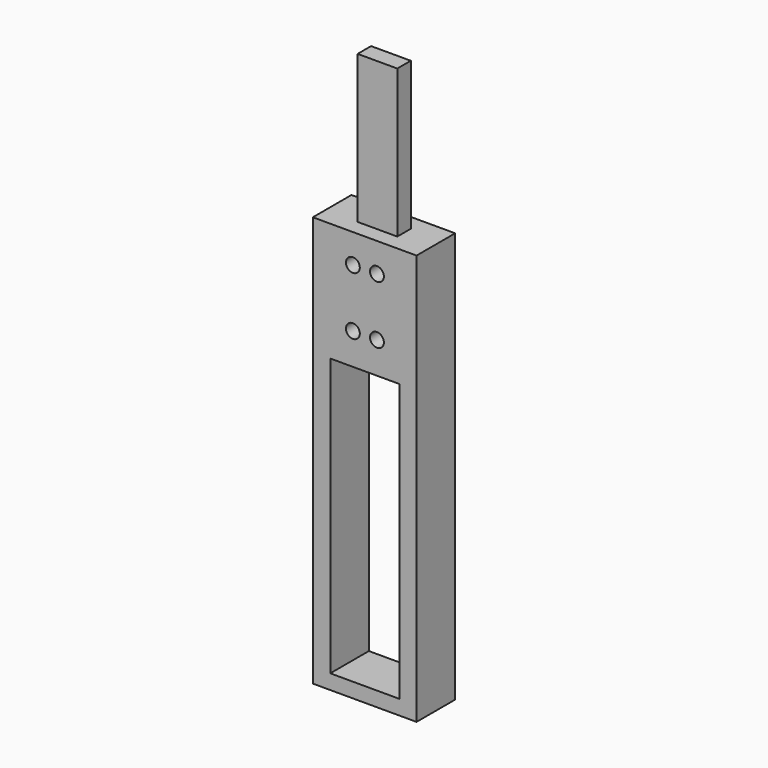
from build123d import *

# Parameters (mm, degrees)
F0_W     = 10.5505171232
F0_H     = 5.8358493261
F1_DEPTH = 85
F3_DEPTH = 33.5
F4_D     = 4
F5_W     = 11.4551503211
F5_H     = 4.8642051406
F6_DEPTH = 42.7
F7_W     = 20
F7_H     = 50
F7_H_2   = 30
F8_DEPTH = 25


with BuildPart() as f1:
    # F0 (on Top) → F1 (new body)
    with BuildSketch(Plane.XY):
        with BuildLine():
            ThreePointArc((6.3000439482, -6.9552523798), (8.5786924555, -3.8042246479), (9.3843534363, 0))
            ThreePointArc((9.3843534363, 0), (8.5736712413, 3.8155275996), (6.2816887803, 6.9718344419))
            Line((6.2816887803, 6.9718344419), (-6.2816887803, 6.9718344419))
            ThreePointArc((-6.2816887803, 6.9718344419), (-9.384345286, 0.0123680735), (-6.3000439482, -6.9552523798))
            Line((-6.3000439482, -6.9552523798), (6.3000439482, -6.9552523798))
        make_face()
        with Locations((0.2029326279, 0)):
            Rectangle(F0_W, F0_H, mode=Mode.SUBTRACT)
        with BuildLine():
            ThreePointArc((6.2816887803, 6.9718344419), (8.5736712413, 3.8155275996), (9.3843534363, 0))
            ThreePointArc((9.3843534363, 0), (8.5786924555, -3.8042246479), (6.3000439482, -6.9552523798))
            Line((6.3000439482, -6.9552523798), (14.9059631667, -6.9552523798))
            Line((14.9059631667, -6.9552523798), (14.9059631667, 6.9718344419))
            Line((14.9059631667, 6.9718344419), (6.2816887803, 6.9718344419))
        make_face()
        with Locations((0.2029326279, 0)):
            Rectangle(F0_W, F0_H)
        with BuildLine():
            ThreePointArc((-6.3000439482, -6.9552523798), (-9.384345286, 0.0123680735), (-6.2816887803, 6.9718344419))
            Line((-6.2816887803, 6.9718344419), (-15.021123655, 6.9718344419))
            Line((-15.021123655, 6.9718344419), (-15.021123655, -6.9552523798))
            Line((-15.021123655, -6.9552523798), (-6.3000439482, -6.9552523798))
        make_face()
    extrude(amount=F1_DEPTH)

    # F3 (add): a face of the model
    f3_faces = [f1.faces().sort_by_distance(p)[0] for p in [
        (-0.0575802442, 0.008291031, 0),
    ]]
    extrude(f3_faces, amount=F3_DEPTH)

    # F4 (through all)
    with Locations(Plane.XZ.offset(6.9552523798)):
        with Locations((3.4722961341, 76.6178924305), (-3.4723085311, 76.6178924305), (3.4722961341, 59.8538924305), (-3.4723085311, 59.8538924305)):
            Hole(F4_D / 2)

    # F5 (on face) → F6 (join)
    with BuildSketch(Plane.XY.offset(85)):
        Rectangle(F5_W, F5_H)
    extrude(amount=F6_DEPTH)

    # F7 (on face) → F8 (cut)
    with BuildSketch(Plane.XZ.offset(6.9552523798)):
        with Locations((0, 25.75)):
            Rectangle(F7_W, F7_H)
        with Locations((0, -14.25)):
            Rectangle(F7_W, F7_H_2)
    extrude(amount=-F8_DEPTH, mode=Mode.SUBTRACT)


solid = f1.part
